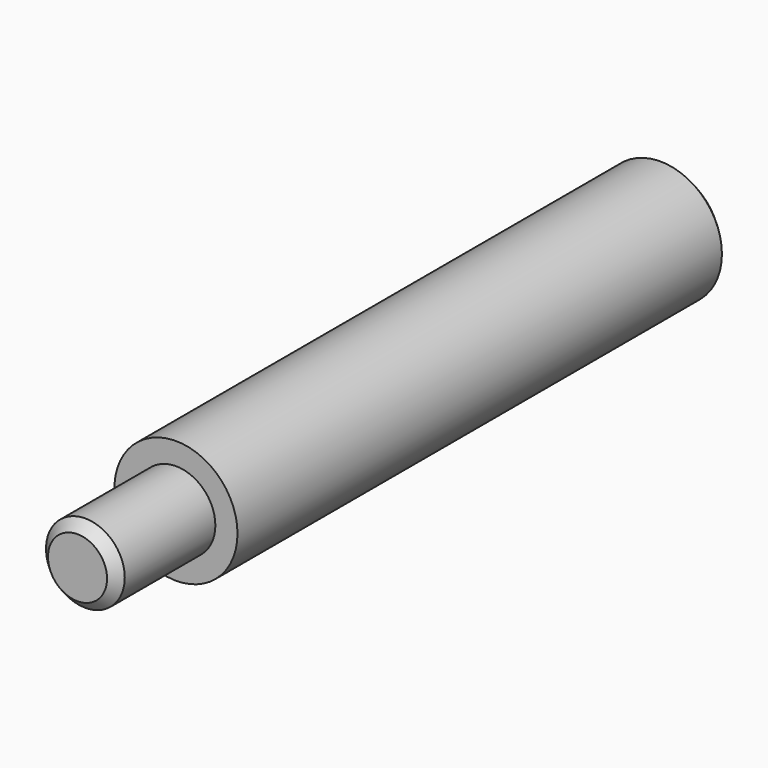
from build123d import *

# Parameters (mm, degrees)
F0_R          = 1.5875
F0_R_2        = 1.016
F1_DEPTH      = 15.875
F2_DEPTH      = 3.175
F2_DEPTH_BACK = 15.875
F3_SIZE       = 0.254


with BuildPart() as f1:
    # F0 (on Front) → F1 (new body)
    with BuildSketch(Plane.XZ):
        Circle(F0_R)
        Circle(F0_R_2, mode=Mode.SUBTRACT)
    extrude(amount=-F1_DEPTH)

    # F0 (on Front) → F2 (join, two sides)
    with BuildSketch(Plane.XZ) as f2_sk:
        Circle(F0_R_2)
    extrude(amount=F2_DEPTH)
    extrude(f2_sk.sketch, amount=-F2_DEPTH_BACK)

    # F3
    f3_edges = [f1.edges().sort_by_distance(p)[0] for p in [
        (-1.5875, 15.875, 0),
        (-1.016, -3.175, 0),
    ]]
    chamfer(f3_edges, length=F3_SIZE)


solid = f1.part
